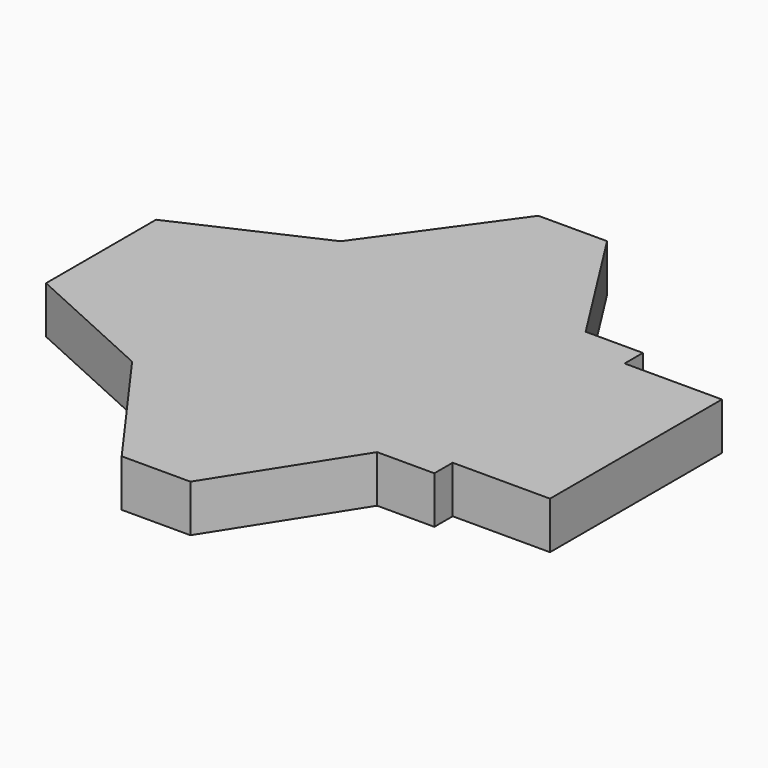
from build123d import *

# Parameters (mm, degrees)
F1_DEPTH = 2.06


with BuildPart() as f1:
    # F0 (on Top) → F1 (new body)
    with BuildSketch(Plane.XY):
        Polygon((0, 3), (0, 0), (0, -3), (5.91, -5.692033), (10, -11.372869), (13, -11.372869), (16.61, -5.692033), (19.11, -5.692033), (19.11, -4.692033), (23.36, -4.692033), (23.36, 0), (23.36, 4.692033), (19.11, 4.692033), (19.11, 5.692033), (16.61, 5.692033), (13, 11.372869), (10, 11.372869), (5.91, 5.692033), align=None)
    extrude(amount=F1_DEPTH)


solid = f1.part
